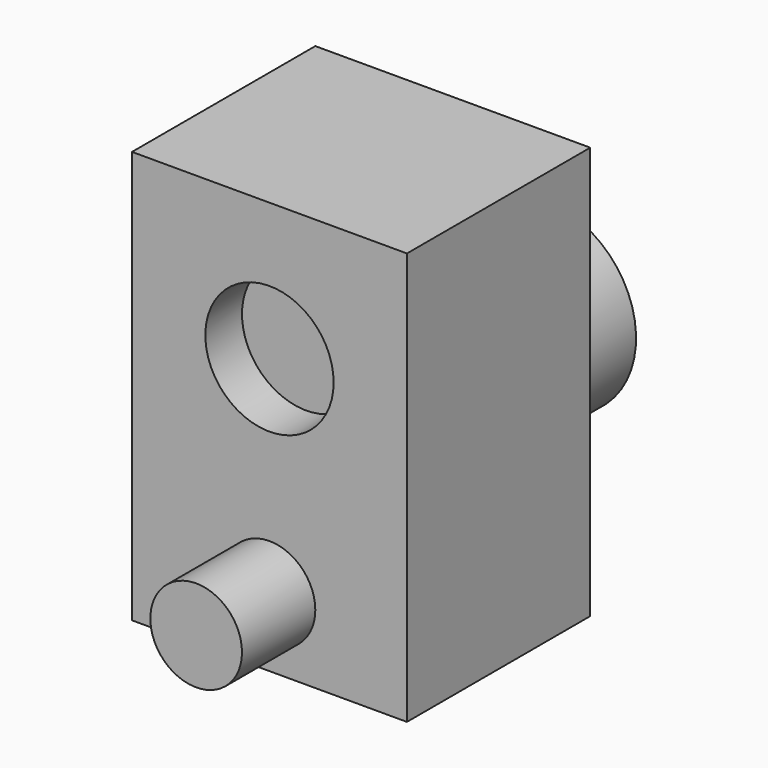
from build123d import *

# Parameters (mm, degrees)
F0_W     = 60
F0_H     = 60
F1_DEPTH = 90
F2_DEPTH = 10
F4_DEPTH = 25
F5_W     = 60
F5_H     = 90
F5_R     = 10
F6_DEPTH = 20
F7_R     = 14
F8_DEPTH = 10


with BuildPart() as f1:
    # F0 (on Top) → F1 (new body)
    with BuildSketch(Plane.XY):
        Rectangle(F0_W, F0_H)
    extrude(amount=F1_DEPTH)

    # F2 (add): a face of the model
    f2_faces = [f1.faces().sort_by_distance(p)[0] for p in [
        (0, -30, 45),
    ]]
    extrude(f2_faces, amount=F2_DEPTH)

    # F3 (on face) → F4 (join)
    with BuildSketch(Plane(origin=(0, 30, 0), x_dir=(-1, 0, 0), z_dir=(0, 1, 0))):
        with BuildLine():
            ThreePointArc((0, 20), (14.1421356237, 25.8578643763), (20, 40))
            ThreePointArc((20, 40), (-14.1421356237, 54.1421356237), (0, 20))
        make_face()
    extrude(amount=F4_DEPTH)

    # F5 (on face) → F6 (cut)
    with BuildSketch(Plane.XZ.offset(40)):
        with Locations((0, 45)):
            Rectangle(F5_W, F5_H)
        with Locations((0, 15)):
            Circle(F5_R, mode=Mode.SUBTRACT)
    extrude(amount=-F6_DEPTH, mode=Mode.SUBTRACT)

    # F7 (on face) → F8 (cut)
    with BuildSketch(Plane.XZ.offset(20)):
        with Locations((0, 60)):
            Circle(F7_R)
    extrude(amount=-F8_DEPTH, mode=Mode.SUBTRACT)


solid = f1.part
